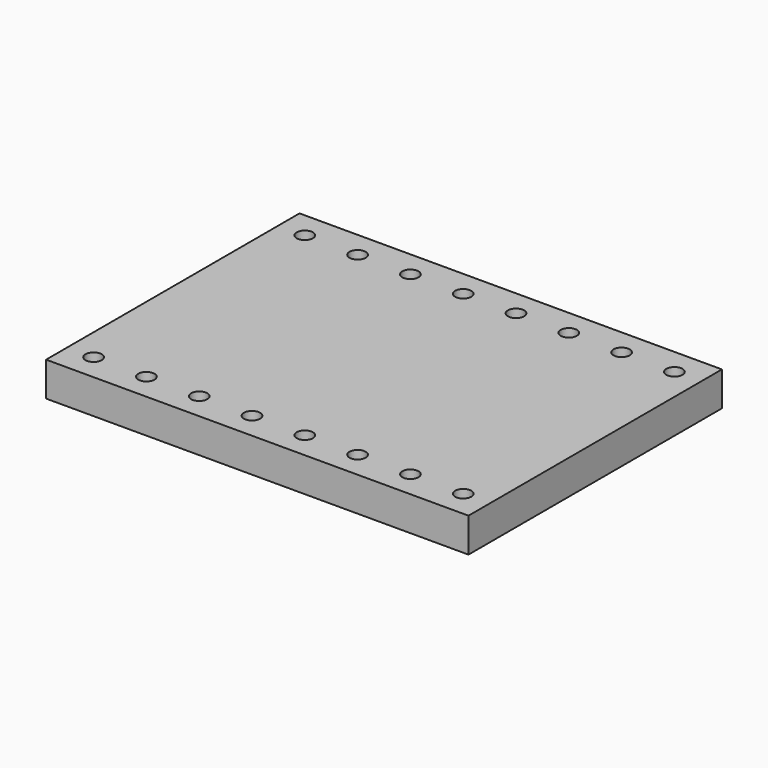
from build123d import *

# Parameters (mm, degrees)
SKETCH047_W              = 20.32
SKETCH047_H              = 15.24
PAD001010_DEPTH          = 1.65
SKETCH048_R              = 0.39
POCKET021005005004_DEPTH = 1.651
LINEARPATTERN002_COUNT   = 8
LINEARPATTERN002_PITCH   = 2.54


with BuildPart() as part:
    # Sketch047 → Pad001010 (new body)
    with BuildSketch(Plane.XY):
        Rectangle(SKETCH047_W, SKETCH047_H)
    extrude(amount=PAD001010_DEPTH)

    # Sketch048 (on Face6 of Pad001010) → Pocket021005005004 (cut, through all)
    with BuildSketch(Plane.XY.offset(1.65)):
        with Locations((-8.89, -6.35)):
            Circle(SKETCH048_R)
        with Locations((-8.89, 6.35)):
            Circle(SKETCH048_R)
    pocket021005005004 = extrude(amount=-POCKET021005005004_DEPTH, mode=Mode.SUBTRACT)

    # LinearPattern002: Pocket021005005004 ×8
    with Locations(*[(i * LINEARPATTERN002_PITCH, 0, 0) for i in range(1, LINEARPATTERN002_COUNT)]):
        add(pocket021005005004, mode=Mode.SUBTRACT)


solid = part.part
